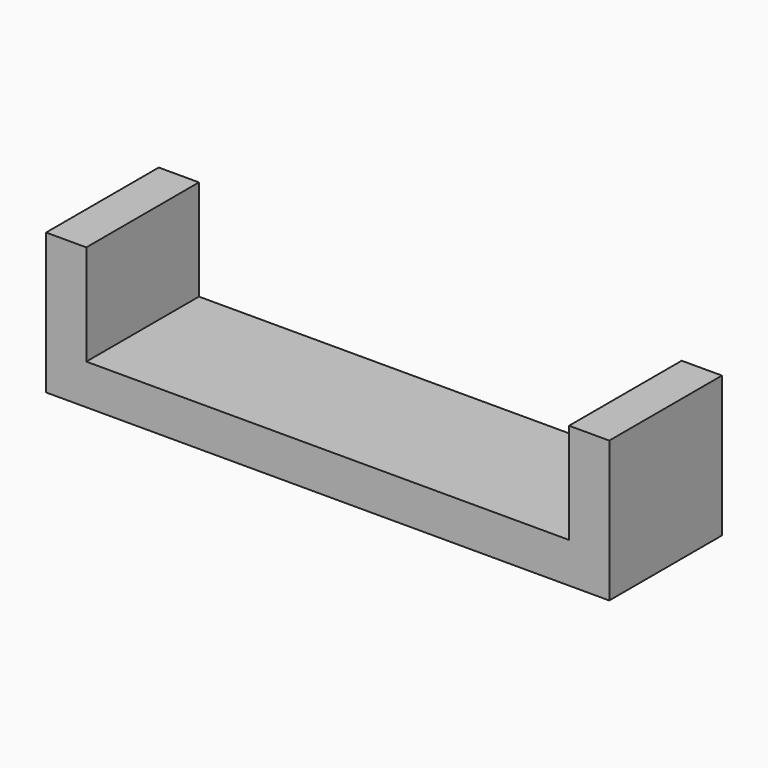
from build123d import *

# Parameters (mm, degrees)
F0_W     = 12
F0_H     = 2
F1_DEPTH = 7


with BuildPart() as f1:
    # F0 (on Front) → F1 (new body)
    with BuildSketch(Plane.XZ):
        Polygon((12, 2), (12, 0), (14, 0), (14, 7), (12, 7), align=None)
        with Locations((6, 1)):
            Rectangle(F0_W, F0_H)
    extrude(amount=-F1_DEPTH)

    # F2: F1 across plane


with BuildPart() as f1_1:
    add(f1.part)
    add(f1.part.mirror(Plane.YZ))


solid = f1_1.part
